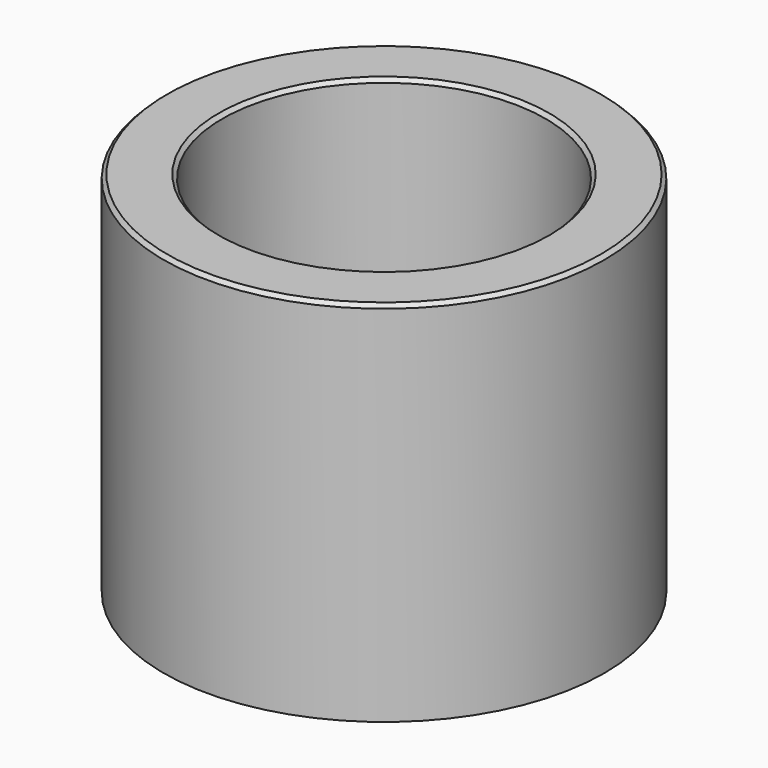
from build123d import *

# Parameters (mm, degrees)
F0_R     = 30
F0_R_2   = 22
F1_DEPTH = 50
F2_SIZE  = 0.5
F3_SIZE  = 0.5


with BuildPart() as f1:
    # F0 (on Top) → F1 (new body)
    with BuildSketch(Plane.XY):
        Circle(F0_R)
        Circle(F0_R_2, mode=Mode.SUBTRACT)
    extrude(amount=F1_DEPTH)

    # F2
    f2_edges = [f1.edges().sort_by_distance(p)[0] for p in [
        (-30, 0, 50),
    ]]
    chamfer(f2_edges, length=F2_SIZE)

    # F3
    f3_edges = [f1.edges().sort_by_distance(p)[0] for p in [
        (-22, 0, 50),
    ]]
    chamfer(f3_edges, length=F3_SIZE)


solid = f1.part
